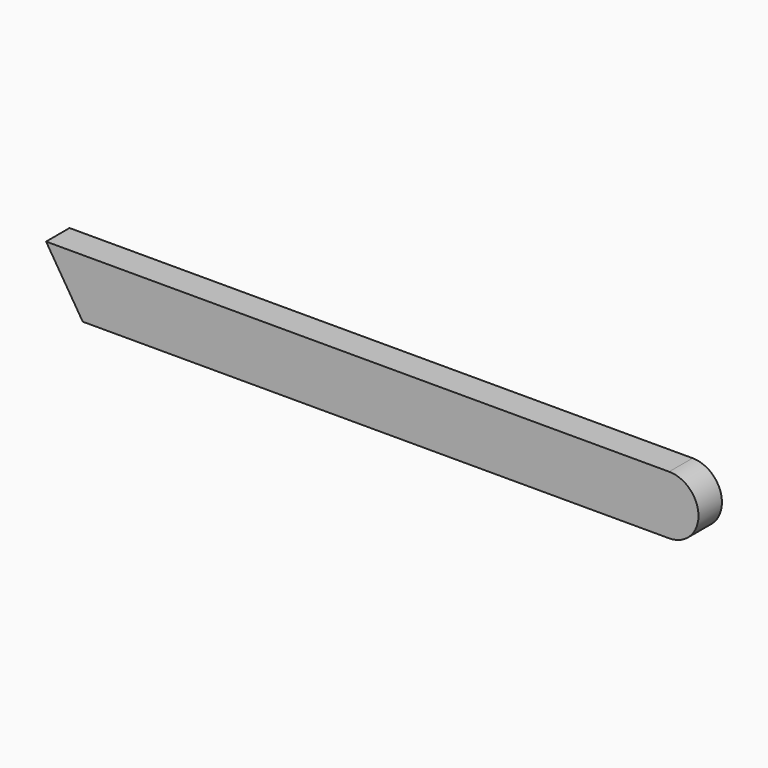
from build123d import *

# Parameters (mm, degrees)
F1_DEPTH = 5.08
F2_DEPTH = 5.08


with BuildPart() as f1:
    # F0 (on Front) → F1 (new body, symmetric)
    with BuildSketch(Plane.XZ):
        with BuildLine():
            Line((0, -10.16), (0, 10.16))
            ThreePointArc((0, 10.16), (-10.16, 0), (0, -10.16))
        make_face()
        with BuildLine():
            ThreePointArc((0, -10.16), (7.1842048969, -7.1842048969), (10.16, 0))
            ThreePointArc((10.16, 0), (7.1842048969, 7.1842048969), (0, 10.16))
            Line((0, 10.16), (0, -10.16))
        make_face()
    extrude(amount=F1_DEPTH, both=True)

    # F0 (on Front) → F2 (join, symmetric)
    with BuildSketch(Plane.XZ):
        with BuildLine():
            ThreePointArc((0, -10.16), (-10.16, 0), (0, 10.16))
            Line((0, 10.16), (-203.2, 10.16))
            Line((-203.2, 10.16), (-203.2, -10.16))
            Line((-203.2, -10.16), (0, -10.16))
        make_face()
        Polygon((-203.2, -10.16), (-203.2, 10.16), (-215.9, 10.16), align=None)
    extrude(amount=F2_DEPTH, both=True)


solid = f1.part
